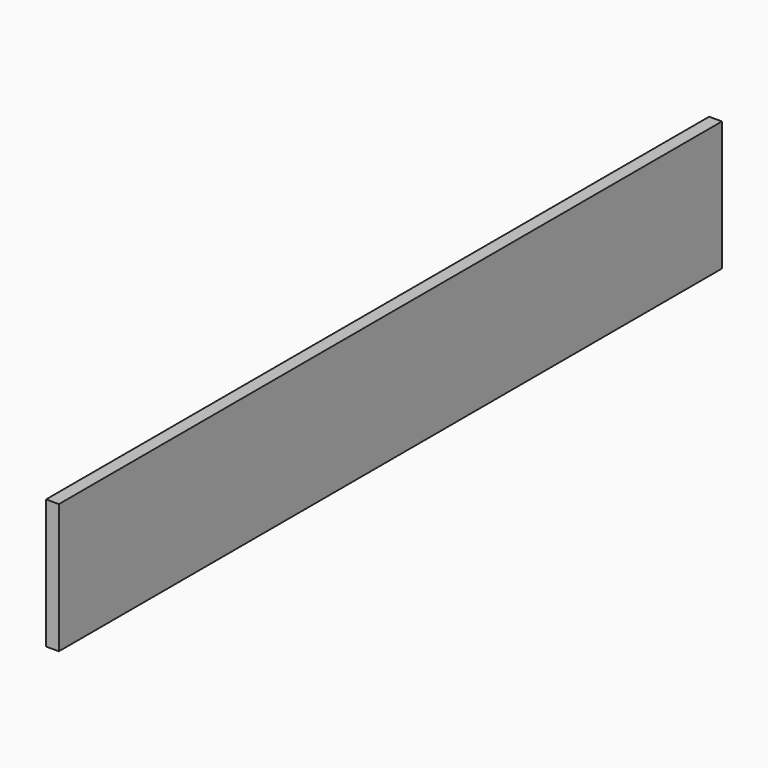
from build123d import *

# Parameters (mm, degrees)
F0_W     = 1164
F0_H     = 182
F1_DEPTH = 18
F2_R     = 1.5
F3_DEPTH = 5


with BuildPart() as f1:
    # F0 (on Right) → F1 (new body)
    with BuildSketch(Plane.YZ):
        Rectangle(F0_W, F0_H)
    extrude(amount=F1_DEPTH)

    # F2 (on face) → F3 (cut)
    with BuildSketch(Plane(origin=(0, 0, -91), x_dir=(1, 0, 0), z_dir=(0, 0, -1))):
        with Locations((9, 562)):
            Circle(F2_R)
        with Locations((9, -562)):
            Circle(F2_R)
    extrude(amount=-F3_DEPTH, mode=Mode.SUBTRACT)


solid = f1.part
